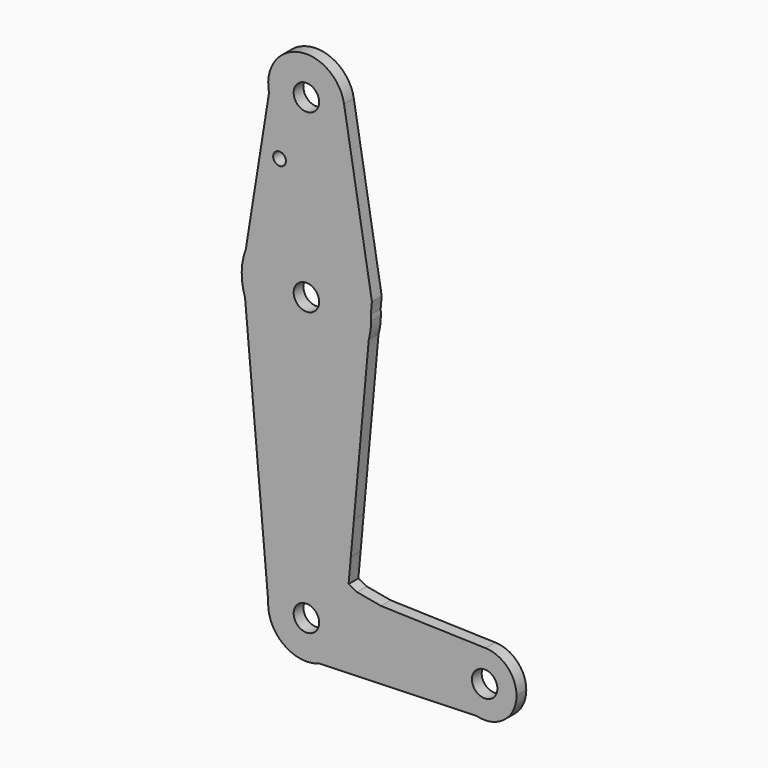
from build123d import *

# Parameters (mm, degrees)
F0_R     = 1.5875
F0_R_2   = 3.175
F1_DEPTH = 3.048


with BuildPart() as f1:
    # F0 (on Front) → F1 (new body)
    with BuildSketch(Plane.XZ):
        with BuildLine():
            Line((16.0681528283, 71.8310925146), (16.337315455, 74.7859746711))
            Line((16.337315455, 74.7859746711), (9.391847506, 115.8870807869))
            ThreePointArc((9.391847506, 115.8870807869), (9.4916535044, 115.0963282945), (9.525, 114.3))
            ThreePointArc((9.525, 114.3), (1.0067336771, 104.8283521865), (-9.3121889351, 112.297810639))
            Line((-9.3121889351, 112.297810639), (-15.0977833334, 76.1066415456))
            ThreePointArc((-15.0977833334, 76.1066415456), (2.1921414458, 86.4114570003), (16.0681528283, 71.8310925146))
        make_face()
        with Locations((-6.6983816214, 98.6464172602)):
            Circle(F0_R, mode=Mode.SUBTRACT)
        with BuildLine():
            ThreePointArc((9.525, 114.3), (9.4916535044, 115.0963282945), (9.391847506, 115.8870807869))
            ThreePointArc((9.391847506, 115.8870807869), (-1.7950769957, 123.654321118), (-9.3121889351, 112.297810639))
            ThreePointArc((-9.3121889351, 112.297810639), (1.0067336771, 104.8283521865), (9.525, 114.3))
        make_face()
        with Locations((0, 114.3)):
            Circle(F0_R_2, mode=Mode.SUBTRACT)
        with BuildLine():
            Line((15.5509378832, 66.1530783304), (16.0681528283, 71.8310925146))
            ThreePointArc((16.0681528283, 71.8310925146), (2.1921414458, 86.4114570003), (-15.0977833334, 76.1066415456))
            Line((-15.0977833334, 76.1066415456), (-15.8424289546, 71.4485902308))
            Line((-15.8424289546, 71.4485902308), (-15.2955467239, 65.3146987721))
            ThreePointArc((-15.2955467239, 65.3146987721), (0.438207978, 54.3092112422), (15.5509378832, 66.1530783304))
        make_face()
        with Locations((0, 70.4321898088)):
            Circle(F0_R_2, mode=Mode.SUBTRACT)
        with BuildLine():
            ThreePointArc((16.1289325156, 70.4321898088), (16.1137304296, 71.1323010412), (16.0681528283, 71.8310925146))
            Line((16.0681528283, 71.8310925146), (15.5509378832, 66.1530783304))
            ThreePointArc((15.5509378832, 66.1530783304), (15.9837807131, 68.2732043503), (16.1289325156, 70.4321898088))
        make_face()
        with BuildLine():
            Line((-15.8424289546, 71.4485902308), (-15.0977833334, 76.1066415456))
            ThreePointArc((-15.0977833334, 76.1066415456), (-16.1262250759, 70.7277044362), (-15.2955467239, 65.3146987721))
            Line((-15.2955467239, 65.3146987721), (-15.8424289546, 71.4485902308))
        make_face()
        with BuildLine():
            Line((11.8478293878, 25.5001490917), (15.5509378832, 66.1530783304))
            ThreePointArc((15.5509378832, 66.1530783304), (0.438207978, 54.3092112422), (-15.2955467239, 65.3146987721))
            Line((-15.2955467239, 65.3146987721), (-9.5136672427, 0.4645003705))
            ThreePointArc((-9.5136672427, 0.4645003705), (0.2323192984, 9.5221663892), (9.525, 0))
            ThreePointArc((9.525, 0), (7.8280583063, -5.4265208148), (3.3418759783, -8.9195005435))
            Line((3.3418759783, -8.9195005435), (42.4707757903, -7.6867794152))
            ThreePointArc((42.4707757903, -7.6867794152), (36.5914044003, 1.1164145513), (44.6898904788, 7.9338741361))
            Line((44.6898904788, 7.9338741361), (18.5918109605, 8.7229817882))
            Line((18.5918109605, 8.7229817882), (12.593745452, 9.8124065759))
            Line((12.593745452, 9.8124065759), (10.5169133056, 10.8892789589))
            Line((10.5169133056, 10.8892789589), (11.0748836455, 17.0147081157))
            Line((11.0748836455, 17.0147081157), (11.8478293878, 25.5001490917))
        make_face()
        with BuildLine():
            ThreePointArc((9.525, 0), (0.2323192984, 9.5221663892), (-9.5136672427, 0.4645003705))
            Line((-9.5136672427, 0.4645003705), (-9.2814365922, -2.140224237))
            ThreePointArc((-9.2814365922, -2.140224237), (-6.9630606512, -6.4993393024), (-2.773804275, -9.1121696014))
            Line((-2.773804275, -9.1121696014), (3.3418759783, -8.9195005435))
            ThreePointArc((3.3418759783, -8.9195005435), (7.8280583063, -5.4265208148), (9.525, 0))
        make_face()
        Circle(F0_R_2, mode=Mode.SUBTRACT)
        with BuildLine():
            Line((-9.2814365922, -2.140224237), (-9.5136672427, 0.4645003705))
            ThreePointArc((-9.5136672427, 0.4645003705), (-9.4873668429, -0.8458696046), (-9.2814365922, -2.140224237))
        make_face()
        with BuildLine():
            Line((3.3418759783, -8.9195005435), (-2.773804275, -9.1121696014))
            ThreePointArc((-2.773804275, -9.1121696014), (0.2999278355, -9.5202766921), (3.3418759783, -8.9195005435))
        make_face()
        with BuildLine():
            ThreePointArc((44.6898904788, 7.9338741361), (36.5914044003, 1.1164145513), (42.4707757903, -7.6867794152))
            ThreePointArc((42.4707757903, -7.6867794152), (49.312808555, -6.2735156975), (52.3875, 0))
            ThreePointArc((52.3875, 0), (50.1468428504, 5.5271952912), (44.6898904788, 7.9338741361))
        make_face()
        with Locations((44.45, 0)):
            Circle(F0_R_2, mode=Mode.SUBTRACT)
    extrude(amount=F1_DEPTH)


solid = f1.part
